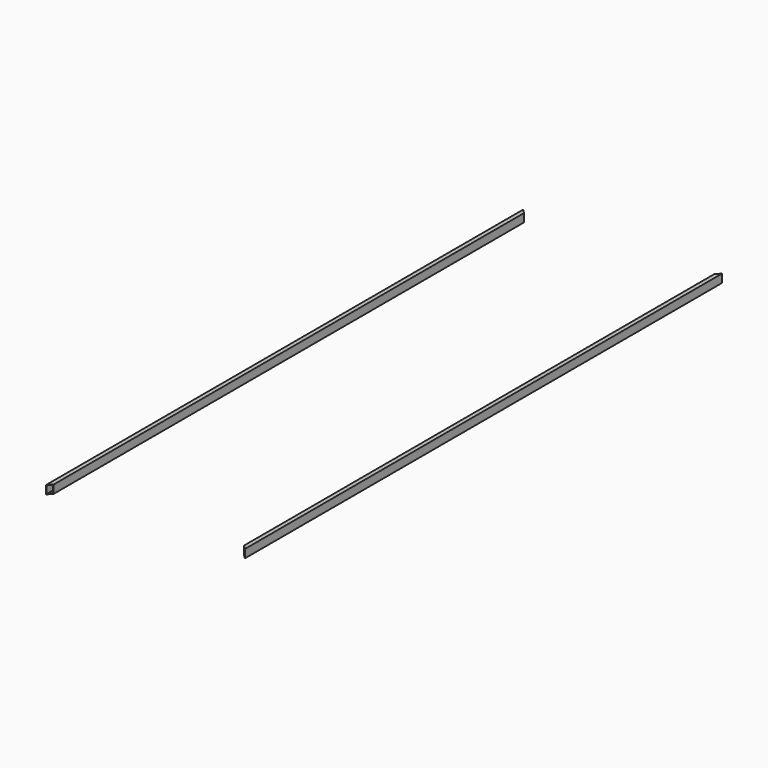
from build123d import *

# Parameters (mm, degrees)
F0_W     = 38.1
F0_H     = 76.2
F1_DEPTH = 5486.4
F2_T     = -3.175
F4_DEPTH = 76.201
F6_DEPTH = 76.201
F8_ANGLE = 180


with BuildPart() as f1:
    # F0 (on Front) → F1 (new body)
    with BuildSketch(Plane.XZ):
        with Locations((-4821.6546326876, 2059.2713938425)):
            Rectangle(F0_W, F0_H)
    extrude(amount=F1_DEPTH)

    # F2
    f2_openings = [f1.faces().sort_by_distance(p)[0] for p in [
        (-4821.654633, -5486.4, 2059.271394),
    ]]
    offset(amount=F2_T, openings=f2_openings)

    # F3 (on face) → F4 (cut, through all)
    with BuildSketch(Plane.XY.offset(2097.3713938425)):
        Polygon((-4802.6046326876, -5448.3), (-4840.7046326876, -5486.4), (-4802.6046326876, -5486.4), align=None)
    extrude(amount=-F4_DEPTH, mode=Mode.SUBTRACT)

    # F5 (on face) → F6 (cut, through all)
    with BuildSketch(Plane.XY.offset(2097.3713938425)):
        Polygon((-4802.6046326876, 0), (-4840.7046326876, 0), (-4802.6046326876, -38.1), align=None)
    extrude(amount=-F6_DEPTH, mode=Mode.SUBTRACT)


with BuildPart() as f7_1:
    # F7: copy of F1
    add(f1.part.moved(Location((1828.8, 0, 0))))


with BuildPart() as f7_1_1:
    # F8: moved
    add(f7_1.part.rotate(Axis((-3011.9046326876, -2743.2, 2097.3713938425), (0, 1, 0)), F8_ANGLE))


solid = Compound([f1.part, f7_1_1.part])
